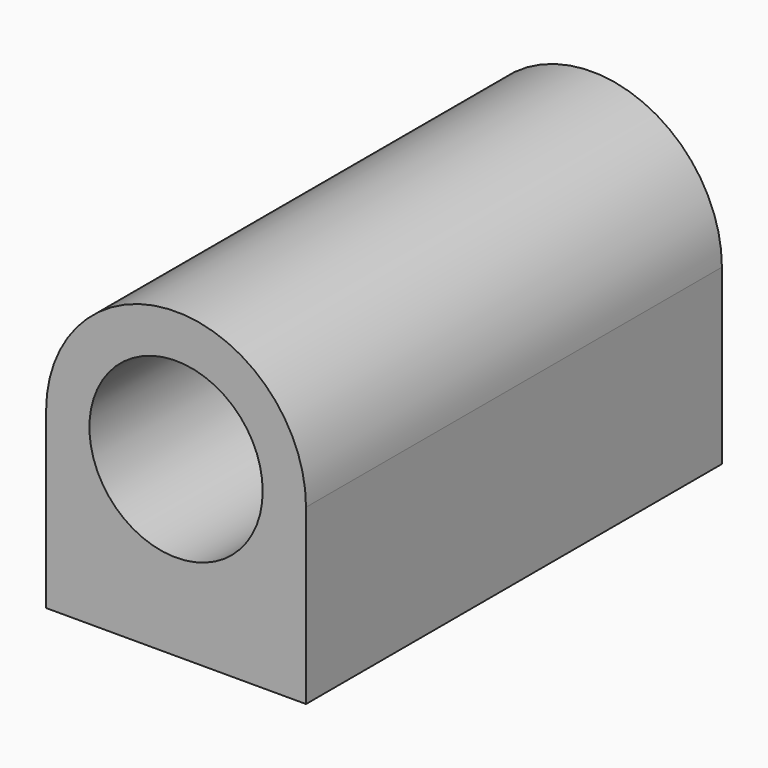
from build123d import *

# Parameters (mm, degrees)
F0_R     = 12.7
F1_DEPTH = 76.2
F2_R     = 1.651
F3_DEPTH = 12.7


with BuildPart() as f1:
    # F0 (on Front) → F1 (new body)
    with BuildSketch(Plane.XZ):
        with BuildLine():
            Line((19.05, -25.4), (19.05, 0))
            ThreePointArc((19.05, 0), (0, 19.05), (-19.05, 0))
            Line((-19.05, 0), (-19.05, -25.4))
            Line((-19.05, -25.4), (19.05, -25.4))
        make_face()
        Circle(F0_R, mode=Mode.SUBTRACT)
    extrude(amount=F1_DEPTH)

    # F2 (on face) → F3 (cut)
    with BuildSketch(Plane(origin=(0, 0, -25.4), x_dir=(1, 0, 0), z_dir=(0, 0, -1))):
        with Locations((-12.7, 69.85)):
            Circle(F2_R)
        with Locations((12.7, 69.85)):
            Circle(F2_R)
        with Locations((-12.7, 6.35)):
            Circle(F2_R)
        with Locations((12.7, 6.35)):
            Circle(F2_R)
    extrude(amount=-F3_DEPTH, mode=Mode.SUBTRACT)


solid = f1.part
